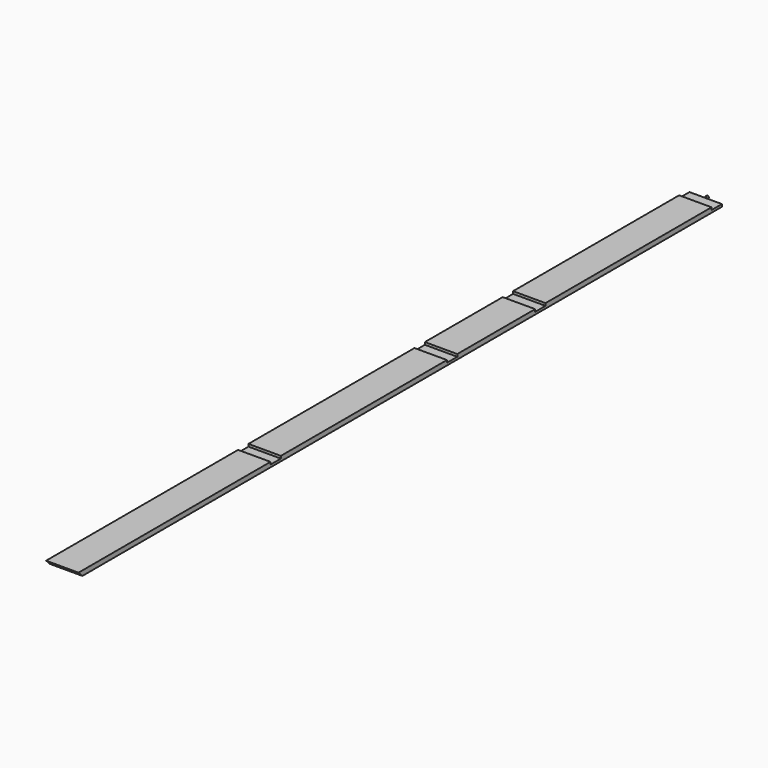
from build123d import *

# Parameters (mm, degrees)
F1_DEPTH = 63.5
F3_R     = 4.7625
F4_DEPTH = 9.525


with BuildPart() as f1:
    # F0 (on Right) → F1 (new body, symmetric)
    with BuildSketch(Plane.YZ):
        Polygon((-33.290768, -9.525), (2997.2, -9.525), (2997.2, 0), (2946.4, 0), (2946.4, 9.525), (2133.6, 9.525), (2133.6, 0), (2082.8, 0), (2082.8, 9.525), (1701.8, 9.525), (1701.8, 0), (1651, 0), (1651, 9.525), (838.2, 9.525), (838.2, 0), (787.4, 0), (787.4, 9.525), (0, 9.525), (-152.4, 9.525), (-133.35, -9.525), align=None)
    extrude(amount=F1_DEPTH, both=True)

    # F3 (on offset) → F4 (join)
    with BuildSketch(Plane.XZ.offset(-2997.2)):
        Circle(F3_R)
    extrude(amount=-F4_DEPTH)


solid = f1.part
